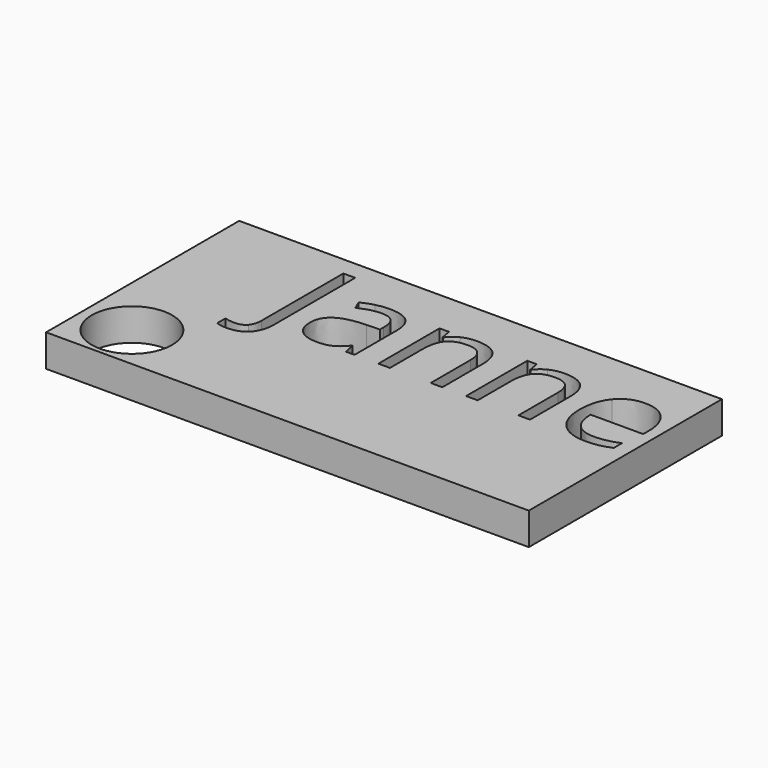
from build123d import *

# Parameters (mm, degrees)
F0_W     = 30
F0_H     = 15
F1_DEPTH = 2
F3_D     = 5
F3_DEPTH = 2
F3_TIP   = 1.5021515476


with BuildPart() as f1:
    # F0 (on Top) → F1 (new body)
    with BuildSketch(Plane.XY):
        with Locations((-15, 7.5)):
            Rectangle(F0_W, F0_H)
        with BuildLine():
            add(Edge.make_bspline(
                [(-22.2773678395, 6.2837986352), (-22.6936375593, 5.8307584235), (-23.4748370669, 5.8307584235)],
                knots=[0, 0, 0, 1, 1, 1], degree=2))
            add(Edge.make_bspline(
                [(-23.4748370669, 5.8307584235), (-23.8813938266, 5.8307584235), (-24.1158924354, 5.947313945)],
                knots=[0, 0, 0, 1, 1, 1], degree=2))
            Line((-24.1158924354, 5.947313945), (-24.1158924354, 6.575881222))
            add(Edge.make_bspline(
                [(-24.1158924354, 6.575881222), (-23.8078528427, 6.4898521465), (-23.4748370669, 6.4898521465)],
                knots=[0, 0, 0, 1, 1, 1], degree=2))
            add(Edge.make_bspline(
                [(-23.4748370669, 6.4898521465), (-23.0446916897, 6.4898521465), (-22.8212936067, 6.7500207214)],
                knots=[0, 0, 0, 1, 1, 1], degree=2))
            add(Edge.make_bspline(
                [(-22.8212936067, 6.7500207214), (-22.5978955238, 7.0101892963), (-22.5978955238, 7.5)],
                knots=[0, 0, 0, 1, 1, 1], degree=2))
            Line((-22.5978955238, 7.5), (-22.5978955238, 13.839787833))
            Line((-22.5978955238, 13.839787833), (-21.8610981197, 13.839787833))
            Line((-21.8610981197, 13.839787833), (-21.8610981197, 7.5610528922))
            add(Edge.make_bspline(
                [(-21.8610981197, 7.5610528922), (-21.8610981197, 6.736838847), (-22.2773678395, 6.2837986352)],
                knots=[0, 0, 0, 1, 1, 1], degree=2))
        make_face(mode=Mode.SUBTRACT)
        with BuildLine():
            Line((-16.8311723384, 7.5), (-17.3653851455, 7.5))
            Line((-17.3653851455, 7.5), (-17.508304416, 8.1771320776))
            Line((-17.508304416, 8.1771320776), (-17.5429935593, 8.1771320776))
            add(Edge.make_bspline(
                [(-17.5429935593, 8.1771320776), (-17.8982103869, 7.7303359116), (-18.2513458659, 7.5714596352)],
                knots=[0, 0, 0, 1, 1, 1], degree=2))
            add(Edge.make_bspline(
                [(-18.2513458659, 7.5714596352), (-18.6044813449, 7.4125833588), (-19.1345314548, 7.4125833588)],
                knots=[0, 0, 0, 1, 1, 1], degree=2))
            add(Edge.make_bspline(
                [(-19.1345314548, 7.4125833588), (-19.8408024128, 7.4125833588), (-20.2418089095, 7.7775131466)],
                knots=[0, 0, 0, 1, 1, 1], degree=2))
            add(Edge.make_bspline(
                [(-20.2418089095, 7.7775131466), (-20.6428154063, 8.1424429343), (-20.6428154063, 8.8140247489)],
                knots=[0, 0, 0, 1, 1, 1], degree=2))
            add(Edge.make_bspline(
                [(-20.6428154063, 8.8140247489), (-20.6428154063, 10.2529304138), (-18.3408438557, 10.3223087004)],
                knots=[0, 0, 0, 1, 1, 1], degree=2))
            Line((-18.3408438557, 10.3223087004), (-17.5346681649, 10.3486724494))
            Line((-17.5346681649, 10.3486724494), (-17.5346681649, 10.6442239504))
            add(Edge.make_bspline(
                [(-17.5346681649, 10.6442239504), (-17.5346681649, 11.2034129407), (-17.7747170367, 11.4698255614)],
                knots=[0, 0, 0, 1, 1, 1], degree=2))
            add(Edge.make_bspline(
                [(-17.7747170367, 11.4698255614), (-18.0147659085, 11.7362381821), (-18.5448160184, 11.7362381821)],
                knots=[0, 0, 0, 1, 1, 1], degree=2))
            add(Edge.make_bspline(
                [(-18.5448160184, 11.7362381821), (-19.138694152, 11.7362381821), (-19.8879796477, 11.3726959601)],
                knots=[0, 0, 0, 1, 1, 1], degree=2))
            Line((-19.8879796477, 11.3726959601), (-20.1099901649, 11.923559556))
            add(Edge.make_bspline(
                [(-20.1099901649, 11.923559556), (-19.7589360345, 12.1136560614), (-19.3405849661, 12.2218861886)],
                knots=[0, 0, 0, 1, 1, 1], degree=2))
            add(Edge.make_bspline(
                [(-19.3405849661, 12.2218861886), (-18.9222338977, 12.3301163157), (-18.5004139149, 12.3301163157)],
                knots=[0, 0, 0, 1, 1, 1], degree=2))
            add(Edge.make_bspline(
                [(-18.5004139149, 12.3301163157), (-17.6512236865, 12.3301163157), (-17.2411980124, 11.9533922193)],
                knots=[0, 0, 0, 1, 1, 1], degree=2))
            add(Edge.make_bspline(
                [(-17.2411980124, 11.9533922193), (-16.8311723384, 11.5766681229), (-16.8311723384, 10.7441286832)],
                knots=[0, 0, 0, 1, 1, 1], degree=2))
            Line((-16.8311723384, 10.7441286832), (-16.8311723384, 7.5))
        make_face(mode=Mode.SUBTRACT)
        with BuildLine():
            Line((-11.3766514429, 7.5), (-12.0967980582, 7.5))
            Line((-12.0967980582, 7.5), (-12.0967980582, 10.5748456638))
            add(Edge.make_bspline(
                [(-12.0967980582, 10.5748456638), (-12.0967980582, 11.1548481401), (-12.3611293303, 11.4413804639)],
                knots=[0, 0, 0, 1, 1, 1], degree=2))
            add(Edge.make_bspline(
                [(-12.3611293303, 11.4413804639), (-12.6254606024, 11.7279127877), (-13.1901998556, 11.7279127877)],
                knots=[0, 0, 0, 1, 1, 1], degree=2))
            add(Edge.make_bspline(
                [(-13.1901998556, 11.7279127877), (-13.9353226541, 11.7279127877), (-14.2822140873, 11.3248249424)],
                knots=[0, 0, 0, 1, 1, 1], degree=2))
            add(Edge.make_bspline(
                [(-14.2822140873, 11.3248249424), (-14.6291055205, 10.921737097), (-14.6291055205, 9.9934556218)],
                knots=[0, 0, 0, 1, 1, 1], degree=2))
            Line((-14.6291055205, 9.9934556218), (-14.6291055205, 7.5))
            Line((-14.6291055205, 7.5), (-15.3492521358, 7.5))
            Line((-15.3492521358, 7.5), (-15.3492521358, 12.2524126347))
            Line((-15.3492521358, 12.2524126347), (-14.7636993966, 12.2524126347))
            Line((-14.7636993966, 12.2524126347), (-14.647143875, 11.601644306))
            Line((-14.647143875, 11.601644306), (-14.6124547317, 11.601644306))
            add(Edge.make_bspline(
                [(-14.6124547317, 11.601644306), (-14.3904442145, 11.9526984364), (-13.9915190663, 12.1462638562)],
                knots=[0, 0, 0, 1, 1, 1], degree=2))
            add(Edge.make_bspline(
                [(-13.9915190663, 12.1462638562), (-13.5925939181, 12.3398292759), (-13.1027832145, 12.3398292759)],
                knots=[0, 0, 0, 1, 1, 1], degree=2))
            add(Edge.make_bspline(
                [(-13.1027832145, 12.3398292759), (-12.2438800259, 12.3398292759), (-11.8102657344, 11.9256409046)],
                knots=[0, 0, 0, 1, 1, 1], degree=2))
            add(Edge.make_bspline(
                [(-11.8102657344, 11.9256409046), (-11.3766514429, 11.5114525334), (-11.3766514429, 10.599821847)],
                knots=[0, 0, 0, 1, 1, 1], degree=2))
            Line((-11.3766514429, 10.599821847), (-11.3766514429, 7.5))
        make_face(mode=Mode.SUBTRACT)
        with BuildLine():
            Line((-5.9262932446, 7.5), (-6.6464398599, 7.5))
            Line((-6.6464398599, 7.5), (-6.6464398599, 10.5748456638))
            add(Edge.make_bspline(
                [(-6.6464398599, 10.5748456638), (-6.6464398599, 11.1548481401), (-6.910771132, 11.4413804639)],
                knots=[0, 0, 0, 1, 1, 1], degree=2))
            add(Edge.make_bspline(
                [(-6.910771132, 11.4413804639), (-7.1751024041, 11.7279127877), (-7.7398416573, 11.7279127877)],
                knots=[0, 0, 0, 1, 1, 1], degree=2))
            add(Edge.make_bspline(
                [(-7.7398416573, 11.7279127877), (-8.4849644558, 11.7279127877), (-8.831855889, 11.3248249424)],
                knots=[0, 0, 0, 1, 1, 1], degree=2))
            add(Edge.make_bspline(
                [(-8.831855889, 11.3248249424), (-9.1787473222, 10.921737097), (-9.1787473222, 9.9934556218)],
                knots=[0, 0, 0, 1, 1, 1], degree=2))
            Line((-9.1787473222, 9.9934556218), (-9.1787473222, 7.5))
            Line((-9.1787473222, 7.5), (-9.8988939375, 7.5))
            Line((-9.8988939375, 7.5), (-9.8988939375, 12.2524126347))
            Line((-9.8988939375, 12.2524126347), (-9.3133411983, 12.2524126347))
            Line((-9.3133411983, 12.2524126347), (-9.1967856767, 11.601644306))
            Line((-9.1967856767, 11.601644306), (-9.1620965334, 11.601644306))
            add(Edge.make_bspline(
                [(-9.1620965334, 11.601644306), (-8.9400860162, 11.9526984364), (-8.541160868, 12.1462638562)],
                knots=[0, 0, 0, 1, 1, 1], degree=2))
            add(Edge.make_bspline(
                [(-8.541160868, 12.1462638562), (-8.1422357198, 12.3398292759), (-7.6524250162, 12.3398292759)],
                knots=[0, 0, 0, 1, 1, 1], degree=2))
            add(Edge.make_bspline(
                [(-7.6524250162, 12.3398292759), (-6.7935218276, 12.3398292759), (-6.3599075361, 11.9256409046)],
                knots=[0, 0, 0, 1, 1, 1], degree=2))
            add(Edge.make_bspline(
                [(-6.3599075361, 11.9256409046), (-5.9262932446, 11.5114525334), (-5.9262932446, 10.599821847)],
                knots=[0, 0, 0, 1, 1, 1], degree=2))
            Line((-5.9262932446, 10.599821847), (-5.9262932446, 7.5))
        make_face(mode=Mode.SUBTRACT)
        with BuildLine():
            add(Edge.make_bspline(
                [(-1.6192892101, 7.4847367769), (-1.9592428147, 7.4125833588), (-2.4407281239, 7.4125833588)],
                knots=[0, 0, 0, 1, 1, 1], degree=2))
            add(Edge.make_bspline(
                [(-2.4407281239, 7.4125833588), (-3.4938905151, 7.4125833588), (-4.1037256546, 8.0550262931)],
                knots=[0, 0, 0, 1, 1, 1], degree=2))
            add(Edge.make_bspline(
                [(-4.1037256546, 8.0550262931), (-4.7135607942, 8.6974692274), (-4.7135607942, 9.836660694)],
                knots=[0, 0, 0, 1, 1, 1], degree=2))
            add(Edge.make_bspline(
                [(-4.7135607942, 9.836660694), (-4.7135607942, 10.9869526864), (-4.1474339752, 11.6633909812)],
                knots=[0, 0, 0, 1, 1, 1], degree=2))
            add(Edge.make_bspline(
                [(-4.1474339752, 11.6633909812), (-3.5813071563, 12.3398292759), (-2.6266619321, 12.3398292759)],
                knots=[0, 0, 0, 1, 1, 1], degree=2))
            add(Edge.make_bspline(
                [(-2.6266619321, 12.3398292759), (-1.734457166, 12.3398292759), (-1.2141200162, 11.752195188)],
                knots=[0, 0, 0, 1, 1, 1], degree=2))
            add(Edge.make_bspline(
                [(-1.2141200162, 11.752195188), (-0.6937828664, 11.1645611002), (-0.6937828664, 10.2015904817)],
                knots=[0, 0, 0, 1, 1, 1], degree=2))
            Line((-0.6937828664, 10.2015904817), (-0.6937828664, 9.7464689213))
            Line((-0.6937828664, 9.7464689213), (-3.96705043, 9.7464689213))
            add(Edge.make_bspline(
                [(-3.96705043, 9.7464689213), (-3.9448493782, 8.9097667845), (-3.5438428815, 8.476152493)],
                knots=[0, 0, 0, 1, 1, 1], degree=2))
            add(Edge.make_bspline(
                [(-3.5438428815, 8.476152493), (-3.1428363847, 8.0425382015), (-2.414364375, 8.0425382015)],
                knots=[0, 0, 0, 1, 1, 1], degree=2))
            add(Edge.make_bspline(
                [(-2.414364375, 8.0425382015), (-1.6470405248, 8.0425382015), (-0.8977550291, 8.3630658858)],
                knots=[0, 0, 0, 1, 1, 1], degree=2))
            Line((-0.8977550291, 8.3630658858), (-0.8977550291, 7.7206229515))
            add(Edge.make_bspline(
                [(-0.8977550291, 7.7206229515), (-1.2793356056, 7.556890195), (-1.6192892101, 7.4847367769)],
                knots=[0, 0, 0, 1, 1, 1], degree=2))
        make_face(mode=Mode.SUBTRACT)
    extrude(amount=-F1_DEPTH)

    # F3
    with Locations(Plane.XY):
        with Locations((-26.8938727677, 2.7855671942)):
            Hole(F3_D / 2, depth=F3_DEPTH)
            with Locations((0, 0, -(F3_DEPTH + F3_TIP / 2))):  # 118° drill point
                Cone(0, F3_D / 2, F3_TIP, mode=Mode.SUBTRACT)


solid = f1.part
